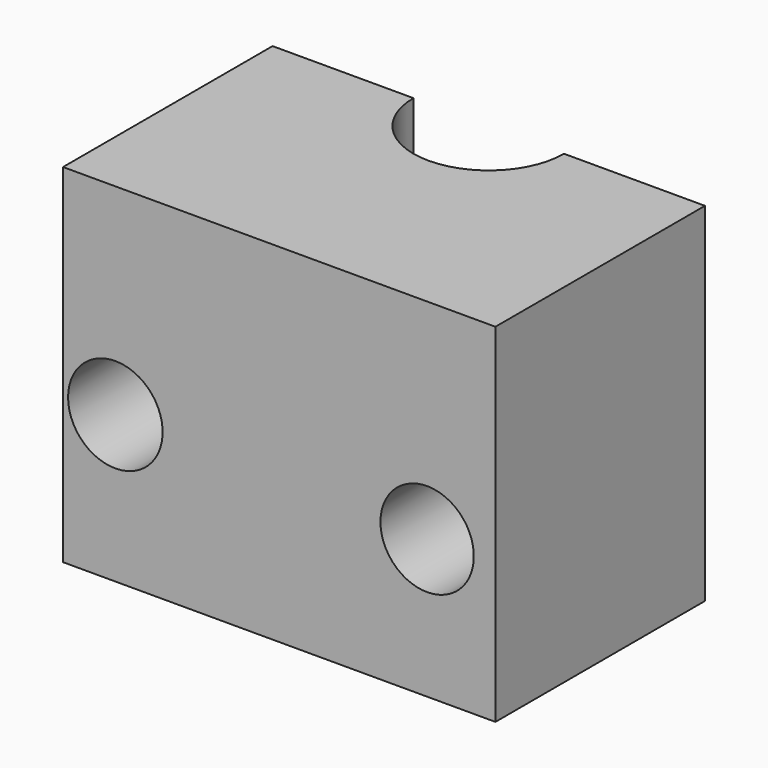
from build123d import *

# Parameters (mm, degrees)
F0_W     = 83.865903
F0_H     = 67.478316
F1_DEPTH = 50.8
F3_DEPTH = 74.422
F4_R     = 9.170677
F4_R_2   = 9.055805
F5_DEPTH = 65.278


with BuildPart() as f1:
    # F0 (on Front) → F1 (new body)
    with BuildSketch(Plane.XZ):
        with Locations((5.663358, -18.43604)):
            Rectangle(F0_W, F0_H)
    extrude(amount=F1_DEPTH)

    # F2 (on face) → F3 (cut)
    with BuildSketch(Plane.XY.offset(15.303118)):
        with BuildLine():
            ThreePointArc((-8.936779, 0), (5.663358, -14.600136), (20.263494, 0))
            Line((20.263494, 0), (-8.936779, 0))
        make_face()
    extrude(amount=-F3_DEPTH, mode=Mode.SUBTRACT)

    # F4 (on face) → F5 (cut)
    with BuildSketch(Plane(origin=(0, 0, 0), x_dir=(-1, 0, 0), z_dir=(0, 1, 0))):
        with Locations((26.124012, -23.695314)):
            Circle(F4_R)
        with Locations((-34.352176, -25.269844)):
            Circle(F4_R_2)
    extrude(amount=-F5_DEPTH, mode=Mode.SUBTRACT)


solid = f1.part
